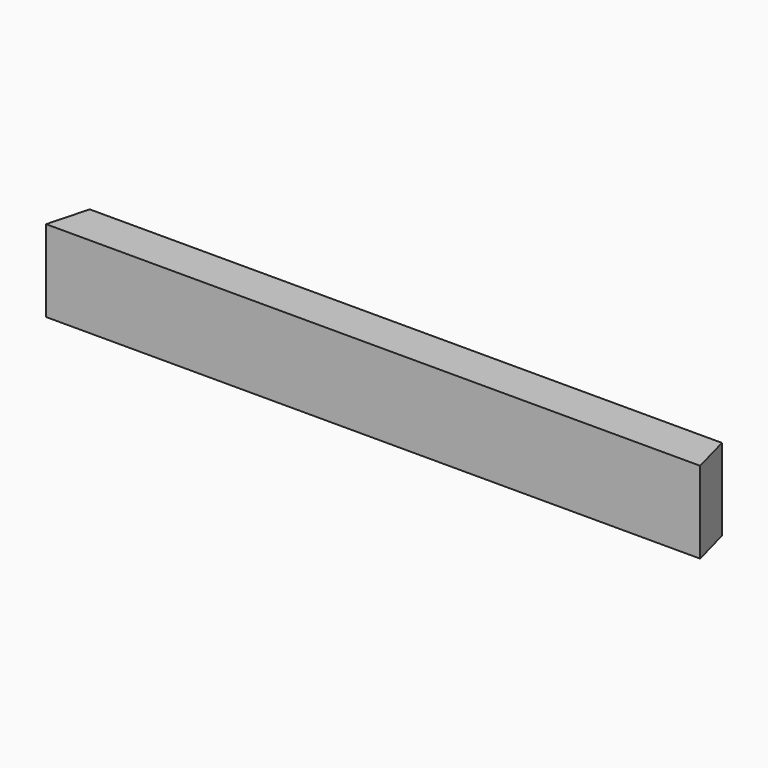
from build123d import *

# Parameters (mm, degrees)
F0_W     = 800
F0_H     = 100
F1_DEPTH = 50
F3_DEPTH = 100.001
F4_T     = -2.5


with BuildPart() as f1:
    # F0 (on Front) → F1 (new body)
    with BuildSketch(Plane.XZ):
        with Locations((337.88613, 1.85813)):
            Rectangle(F0_W, F0_H)
    extrude(amount=F1_DEPTH)

    # F2 (on face) → F3 (cut, through all)
    with BuildSketch(Plane.XY.offset(51.85813)):
        Polygon((-61.941713, -51.992044), (-62.11387, -50), (-36.069817, 47.197729), (-99.164672, 0), (-90.427369, -71.46059), align=None)
        Polygon((713.151226, 42.311921), (737.88613, -50), (805.342257, -50.860211), (814.011762, 33.620565), align=None)
    extrude(amount=-F3_DEPTH, mode=Mode.SUBTRACT)

    # F4
    f4_openings = [f1.faces().sort_by_distance(p)[0] for p in [
        (337.88613, 0, 1.85813),
    ]]
    offset(amount=F4_T, openings=f4_openings)


solid = f1.part
